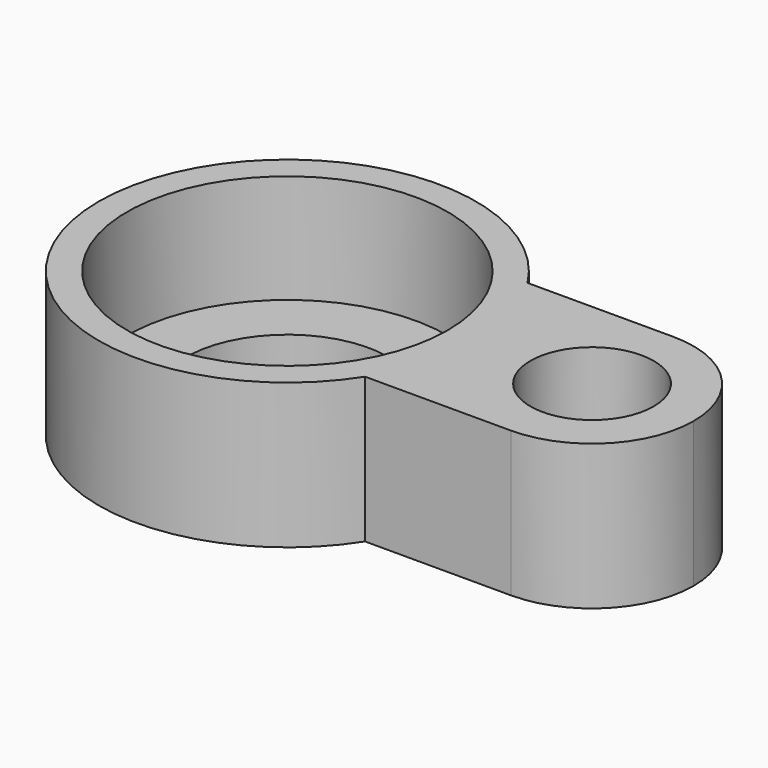
from build123d import *

# Parameters (mm, degrees)
F0_R     = 7
F0_R_2   = 4.25
F1_DEPTH = 10
F2_R     = 11.05
F2_R_2   = 7
F3_DEPTH = 7.5


with BuildPart() as f1:
    # F0 (on Top) → F1 (new body)
    with BuildSketch(Plane.XY):
        with BuildLine():
            ThreePointArc((10.954451, -7), (12.478138, -3.646377), (13, 0))
            ThreePointArc((13, 0), (12.478138, 3.646377), (10.954451, 7))
            ThreePointArc((10.954451, 7), (-13, 0), (10.954451, -7))
        make_face()
        Circle(F0_R, mode=Mode.SUBTRACT)
        with BuildLine():
            ThreePointArc((10.954451, 7), (12.478138, 3.646377), (13, 0))
            ThreePointArc((13, 0), (12.478138, -3.646377), (10.954451, -7))
            Line((10.954451, -7), (21, -7))
            ThreePointArc((21, -7), (14, 0), (21, 7))
            Line((21, 7), (10.954451, 7))
        make_face()
        with BuildLine():
            ThreePointArc((10.954451, 7), (12.478138, 3.646377), (13, 0))
            ThreePointArc((13, 0), (12.478138, -3.646377), (10.954451, -7))
            Line((10.954451, -7), (21, -7))
            ThreePointArc((21, -7), (14, 0), (21, 7))
            Line((21, 7), (10.954451, 7))
        make_face()
        with BuildLine():
            ThreePointArc((28, 0), (25.949747, 4.949747), (21, 7))
            ThreePointArc((21, 7), (14, 0), (21, -7))
            ThreePointArc((21, -7), (25.949747, -4.949747), (28, 0))
        make_face()
        with Locations((21, 0)):
            Circle(F0_R_2, mode=Mode.SUBTRACT)
    extrude(amount=F1_DEPTH)

    # F2 (on face) → F3 (cut)
    with BuildSketch(Plane.XY.offset(10)):
        Circle(F2_R)
        Circle(F2_R_2, mode=Mode.SUBTRACT)
    extrude(amount=-F3_DEPTH, mode=Mode.SUBTRACT)


solid = f1.part
